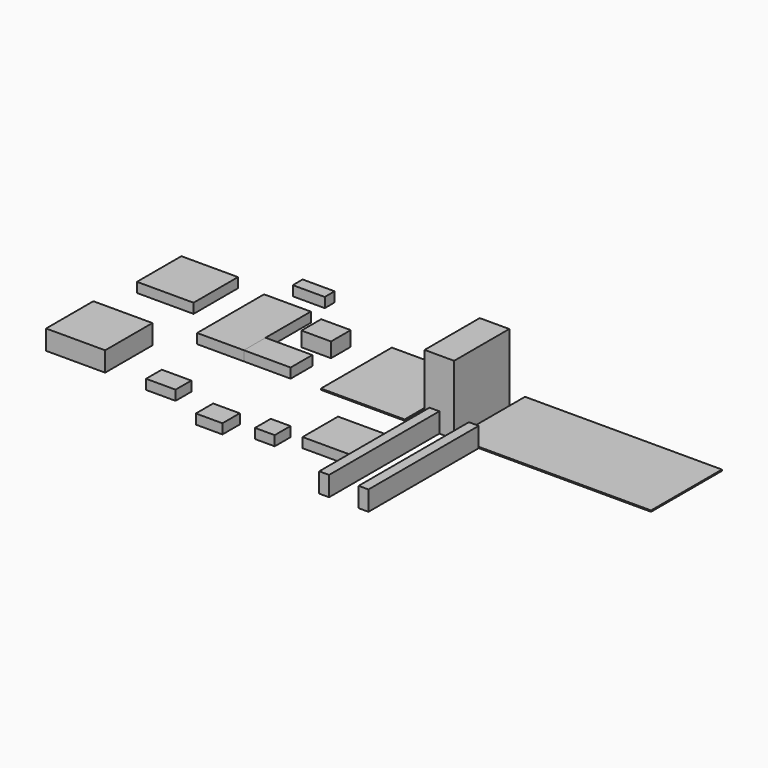
from build123d import *

# Parameters (mm, degrees)
F0_W      = 25.4
F0_H      = 50.8
F1_DEPTH  = 355.6
F2_W      = 508
F2_H      = 228.6
F2_W_2    = 215.9
F3_DEPTH  = 3.175
F4_W      = 76.2
F4_H      = 177.8
F5_DEPTH  = 177.8
F2_W_3    = 120.65
F2_H_2    = 69.85
F6_DEPTH  = 25.4
F2_W_4    = 76.2
F2_H_3    = 63.5
F7_DEPTH  = 38.1
F2_W_5    = 146.05
F2_H_4    = 143.256
F8_DEPTH  = 25.4
F2_W_6    = 82.55
F2_H_5    = 31.75
F9_DEPTH  = 25.4
F10_DEPTH = 25.4
F2_W_7    = 50.8
F2_H_6    = 50.8
F11_DEPTH = 25.4
F2_W_8    = 68.58
F2_H_7    = 55.88
F12_DEPTH = 25.4
F13_DEPTH = 25.4
F2_W_9    = 152.4
F2_H_8    = 152.4
F14_DEPTH = 50.8
F2_W_10   = 139.7
F2_H_9    = 114.3
F15_DEPTH = 25.4


with BuildPart() as f1:
    # F0 (on Front) → F1 (new body)
    with BuildSketch(Plane.XZ):
        with Locations((-50.8, 25.4)):
            Rectangle(F0_W, F0_H)
        with Locations((50.8, 25.4)):
            Rectangle(F0_W, F0_H)
    extrude(amount=F1_DEPTH)


with BuildPart() as f3:
    # F2 (on Top) → F3 (new body)
    with BuildSketch(Plane.XY):
        with Locations((254, 114.3)):
            Rectangle(F2_W, F2_H)
        with Locations((-235.669585, 114.3)):
            Rectangle(F2_W_2, F2_H)
    extrude(amount=F3_DEPTH)


with BuildPart() as f5:
    # F4 (on Top) → F5 (new body)
    with BuildSketch(Plane.XY):
        with Locations((-38.1, 88.9)):
            Rectangle(F4_W, F4_H)
    extrude(amount=F5_DEPTH)


with BuildPart() as f6:
    # F2 (on Top) → F6 (new body)
    with BuildSketch(Plane.XY):
        with Locations((-482.119997, 34.925)):
            Rectangle(F2_W_3, F2_H_2)
    extrude(amount=F6_DEPTH)


with BuildPart() as f7:
    # F2 (on Top) → F7 (new body)
    with BuildSketch(Plane.XY):
        with Locations((-452.095185, 152.258142)):
            Rectangle(F2_W_4, F2_H_3)
    extrude(amount=F7_DEPTH)


with BuildPart() as f8:
    # F2 (on Top) → F8 (new body)
    with BuildSketch(Plane.XY):
        with Locations((-824.1009, 170.196447)):
            Rectangle(F2_W_5, F2_H_4)
    extrude(amount=F8_DEPTH)


with BuildPart() as f9:
    # F2 (on Top) → F9 (new body)
    with BuildSketch(Plane.XY):
        with Locations((-601.659501, 299.218554)):
            Rectangle(F2_W_6, F2_H_5)
    extrude(amount=F9_DEPTH)


with BuildPart() as f10:
    # F2 (on Top) → F10 (new body)
    with BuildSketch(Plane.XY):
        Polygon((-542.444997, 0), (-542.444997, 69.85), (-542.444997, 215.9), (-663.094997, 215.9), (-663.094997, 0), align=None)
    extrude(amount=F10_DEPTH)


with BuildPart() as f11:
    # F2 (on Top) → F11 (new body)
    with BuildSketch(Plane.XY):
        with Locations((-287.89599, -225.081844)):
            Rectangle(F2_W_7, F2_H_6)
    extrude(amount=F11_DEPTH)


with BuildPart() as f12:
    # F2 (on Top) → F12 (new body)
    with BuildSketch(Plane.XY):
        with Locations((-411.390529, -247.859632)):
            Rectangle(F2_W_8, F2_H_7)
    extrude(amount=F12_DEPTH)


with BuildPart() as f13:
    # F2 (on Top) → F13 (new body)
    with BuildSketch(Plane.XY):
        with Locations((-580.544997, -194.860784)):
            Rectangle(F2_W_4, F2_H_6)
    extrude(amount=F13_DEPTH)


with BuildPart() as f14:
    # F2 (on Top) → F14 (new body)
    with BuildSketch(Plane.XY):
        with Locations((-806.183883, -136.694991)):
            Rectangle(F2_W_9, F2_H_8)
    extrude(amount=F14_DEPTH)


with BuildPart() as f15:
    # F2 (on Top) → F15 (new body)
    with BuildSketch(Plane.XY):
        with Locations((-143.731607, -164.644128)):
            Rectangle(F2_W_10, F2_H_9)
    extrude(amount=F15_DEPTH)


solid = Compound([f1.part, f3.part, f5.part, f6.part, f7.part, f8.part, f9.part, f10.part, f11.part, f12.part, f13.part, f14.part, f15.part])
